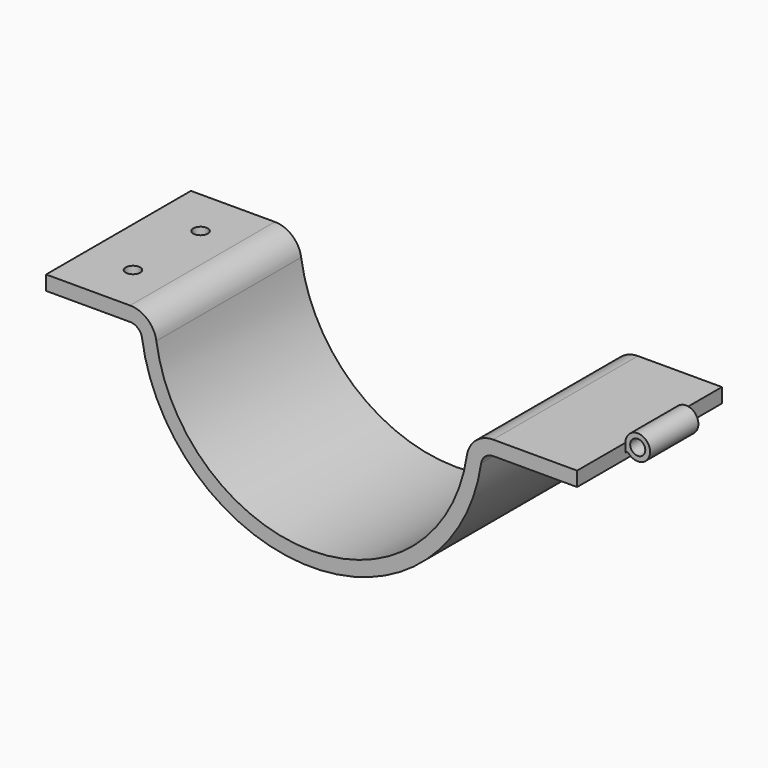
from build123d import *

# Parameters (mm, degrees)
F1_DEPTH      = 37.5
F3_R          = 3.125
F4_DEPTH      = 37.5
F4_DEPTH_BACK = 37.5
F5_W          = 15.7129609585
F5_H          = 26.9097045064
F5_W_2        = 22.5772851706
F5_H_2        = 27.5291122496
F6_DEPTH      = 71.001
F6_DEPTH_BACK = 5.126
F2_R          = 3
F7_DEPTH      = 71.001


with BuildPart() as f1:
    # F0 (on Front) → F1 (new body, symmetric)
    with BuildSketch(Plane.XZ):
        with BuildLine():
            ThreePointArc((64.3155620097, -9.4078947368), (0, -65), (-64.3155620097, -9.4078947368))
            ThreePointArc((-64.3155620097, -9.4078947368), (-68.0064440401, -2.6779462302), (-75.1997340421, 0))
            Line((-75.1997340421, 0), (-110, 0))
            Line((-110, 0), (-110, -6))
            Line((-110, -6), (-75.1997340421, -6))
            ThreePointArc((-75.1997340421, -6), (-71.9300567685, -7.2172482865), (-70.2523831183, -10.2763157895))
            ThreePointArc((-70.2523831183, -10.2763157895), (0, -71), (70.2523831183, -10.2763157895))
            ThreePointArc((70.2523831183, -10.2763157895), (71.9300567685, -7.2172482865), (75.1997340421, -6))
            Line((75.1997340421, -6), (110, -6))
            Line((110, -6), (110, 0))
            Line((110, 0), (75.1997340421, 0))
            ThreePointArc((75.1997340421, 0), (68.0064440401, -2.6779462302), (64.3155620097, -9.4078947368))
        make_face()
    extrude(amount=F1_DEPTH, both=True)

    # F3 (on Front) → F4 (join, two sides)
    with BuildSketch(Plane.XZ) as f4_sk:
        with BuildLine():
            ThreePointArc((110, -3.971), (110.4913325801, -3.253734436), (111.3376547749, -3.4527729648))
            ThreePointArc((111.3376547749, -3.4527729648), (119.9038999403, 1.851415772), (110, 0))
            Line((110, 0), (110, -3.971))
        make_face()
        with Locations((115.125, 0)):
            Circle(F3_R, mode=Mode.SUBTRACT)
    extrude(amount=F4_DEPTH)
    extrude(f4_sk.sketch, amount=-F4_DEPTH_BACK)

    # F5 (on Top) → F6 (cut, two sides)
    with BuildSketch(Plane.XY) as f6_sk:
        with Locations((117.8564804792, -25.9548522532)):
            Rectangle(F5_W, F5_H)
        with Locations((121.2886425853, 26.2645561248)):
            Rectangle(F5_W_2, F5_H_2)
    extrude(amount=-F6_DEPTH, mode=Mode.SUBTRACT)
    extrude(f6_sk.sketch, amount=F6_DEPTH_BACK, mode=Mode.SUBTRACT)

    # F2 (on face) → F7 (cut, through all)
    with BuildSketch(Plane.XY):
        with Locations((-90, 17.5)):
            Circle(F2_R)
        with Locations((-90, -17.5)):
            Circle(F2_R)
    extrude(amount=-F7_DEPTH, mode=Mode.SUBTRACT)


solid = f1.part
